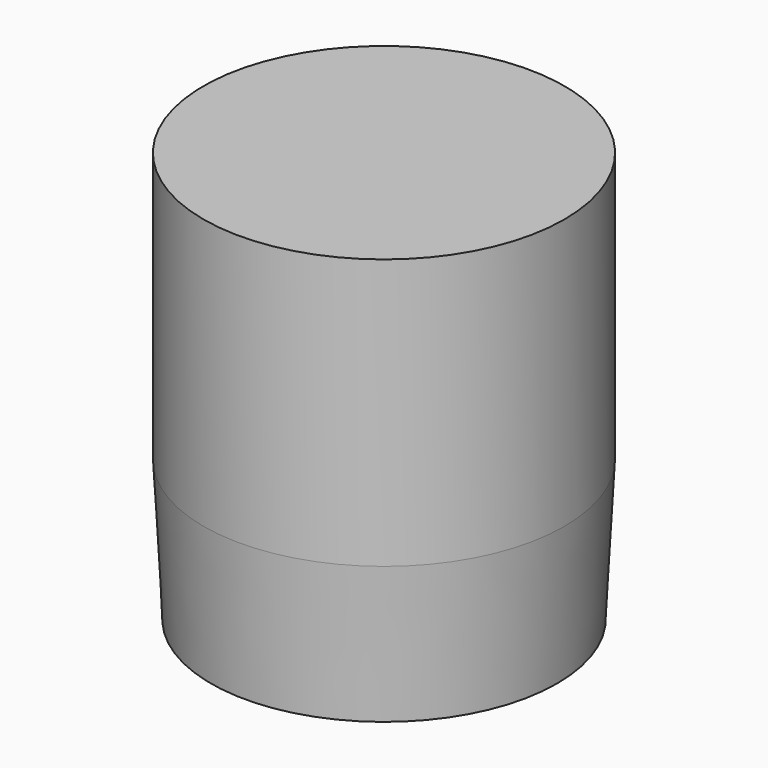
from build123d import *

# Parameters (mm, degrees)
F0_R          = 32.5746494239
F1_DEPTH      = 48.768
F1_DEPTH_BACK = 25.4
F1_TAPER_BACK = 3


with BuildPart() as f1:
    # F0 (on Top) → F1 (new body, two sides)
    with BuildSketch(Plane.XY) as f1_sk:
        Circle(F0_R)
    extrude(amount=F1_DEPTH)
    extrude(f1_sk.sketch, amount=-F1_DEPTH_BACK, taper=F1_TAPER_BACK)


solid = f1.part
